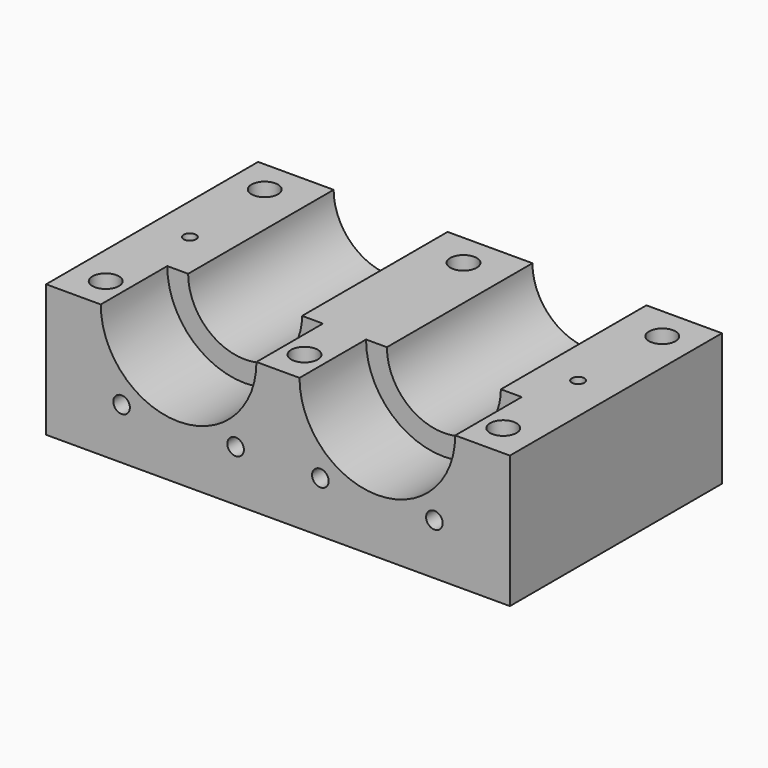
from build123d import *

# Parameters (mm, degrees)
F1_DEPTH  = 50.8
F2_R      = 14.9225
F3_DEPTH  = 15.9385
F4_R      = 2.54
F5_DEPTH  = 25.401
F6_R      = 1.190625
F7_DEPTH  = 25.401
F8_R      = 1.190625
F9_DEPTH  = 25.401
F10_R     = 2.0193
F11_DEPTH = 6.35
F13_DEPTH = 4.1275
F14_R     = 1.5875
F15_DEPTH = 50.801


with BuildPart() as f1:
    # F0 (on Front) → F1 (new body)
    with BuildSketch(Plane.XZ):
        with BuildLine():
            Line((-29.972, 0), (-44.45, 0))
            Line((-44.45, 0), (-44.45, -25.4))
            Line((-44.45, -25.4), (44.45, -25.4))
            Line((44.45, -25.4), (44.45, 0))
            Line((44.45, 0), (29.972, 0))
            ThreePointArc((29.972, 0), (19.05, -10.922), (8.128, 0))
            Line((8.128, 0), (-8.128, 0))
            ThreePointArc((-8.128, 0), (-19.05, -10.922), (-29.972, 0))
        make_face()
    extrude(amount=F1_DEPTH)

    # F2 (on face) → F3 (cut)
    with BuildSketch(Plane.XZ.offset(50.8)):
        with Locations((-19.05, 0)):
            Circle(F2_R)
        with Locations((19.05, 0)):
            Circle(F2_R)
    extrude(amount=-F3_DEPTH, mode=Mode.SUBTRACT)

    # F4 (on face) → F5 (cut, through all)
    with BuildSketch(Plane(origin=(0, 0, -25.4), x_dir=(1, 0, 0), z_dir=(0, 0, -1))):
        with Locations((-38.1, 44.45)):
            Circle(F4_R)
        with Locations((0, 44.45)):
            Circle(F4_R)
        with Locations((38.1, 44.45)):
            Circle(F4_R)
        with Locations((38.1, 6.35)):
            Circle(F4_R)
        with Locations((0, 6.35)):
            Circle(F4_R)
        with Locations((-38.1, 6.35)):
            Circle(F4_R)
    extrude(amount=-F5_DEPTH, mode=Mode.SUBTRACT)

    # F6 (on face) → F7 (cut, through all)
    with BuildSketch(Plane.XY):
        with Locations((37.211, -25.4)):
            Circle(F6_R)
    extrude(amount=-F7_DEPTH, mode=Mode.SUBTRACT)

    # F8 (on face) → F9 (cut, through all)
    with BuildSketch(Plane.XY):
        with Locations((-37.211, -25.4)):
            Circle(F8_R)
    extrude(amount=-F9_DEPTH, mode=Mode.SUBTRACT)

    # F10 (on face) + F8 (on face) → F11 (cut)
    with BuildSketch(Plane(origin=(0, 0, -25.4), x_dir=(1, 0, 0), z_dir=(0, 0, -1))):
        with Locations((-19.05, 6.35)):
            Circle(F10_R)
        with Locations((-19.05, 44.45)):
            Circle(F10_R)
        with Locations((19.05, 44.45)):
            Circle(F10_R)
        with Locations((19.05, 6.35)):
            Circle(F10_R)
    with BuildSketch(Plane.XY):
        with Locations((-37.211, -25.4)):
            Circle(F8_R)
    extrude(amount=-F11_DEPTH, mode=Mode.SUBTRACT)

    # F12 (on face) → F13 (cut)
    with BuildSketch(Plane(origin=(0, 0, -25.4), x_dir=(1, 0, 0), z_dir=(0, 0, -1))):
        with BuildLine():
            Line((-35.808641, 49.2125), (-40.391359, 49.2125))
            ThreePointArc((-40.391359, 49.2125), (-40.788234, 49.106158), (-41.078767, 48.815625))
            Line((-41.078767, 48.815625), (-43.370125, 44.846875))
            ThreePointArc((-43.370125, 44.846875), (-43.476468, 44.45), (-43.370125, 44.053125))
            Line((-43.370125, 44.053125), (-41.078767, 40.084375))
            ThreePointArc((-41.078767, 40.084375), (-40.788234, 39.793842), (-40.391359, 39.6875))
            Line((-40.391359, 39.6875), (-35.808641, 39.6875))
            ThreePointArc((-35.808641, 39.6875), (-35.411766, 39.793842), (-35.121233, 40.084375))
            Line((-35.121233, 40.084375), (-32.829875, 44.053125))
            ThreePointArc((-32.829875, 44.053125), (-32.723532, 44.45), (-32.829875, 44.846875))
            Line((-32.829875, 44.846875), (-35.121233, 48.815625))
            ThreePointArc((-35.121233, 48.815625), (-35.411766, 49.106158), (-35.808641, 49.2125))
        make_face()
        Polygon((2.749631, 49.2125), (-2.749631, 49.2125), (-5.499261, 44.45), (-2.749631, 39.6875), (2.749631, 39.6875), (5.499261, 44.45), align=None)
        Polygon((40.849631, 49.2125), (35.350369, 49.2125), (32.600739, 44.45), (35.350369, 39.6875), (40.849631, 39.6875), (43.599261, 44.45), align=None)
        Polygon((40.849631, 11.1125), (35.350369, 11.1125), (32.600739, 6.35), (35.350369, 1.5875), (40.849631, 1.5875), (43.599261, 6.35), align=None)
        Polygon((2.749631, 11.1125), (-2.749631, 11.1125), (-5.499261, 6.35), (-2.749631, 1.5875), (2.749631, 1.5875), (5.499261, 6.35), align=None)
        Polygon((-35.350369, 11.1125), (-40.849631, 11.1125), (-43.599261, 6.35), (-40.849631, 1.5875), (-35.350369, 1.5875), (-32.600739, 6.35), align=None)
    extrude(amount=-F13_DEPTH, mode=Mode.SUBTRACT)

    # F14 (on face) → F15 (cut, through all)
    with BuildSketch(Plane.XZ.offset(50.8)):
        with Locations((29.976631, -15.604846)):
            Circle(F14_R)
        with Locations((8.123369, -15.604846)):
            Circle(F14_R)
        with Locations((-8.123369, -15.604846)):
            Circle(F14_R)
        with Locations((-29.976631, -15.604846)):
            Circle(F14_R)
    extrude(amount=-F15_DEPTH, mode=Mode.SUBTRACT)


solid = f1.part
